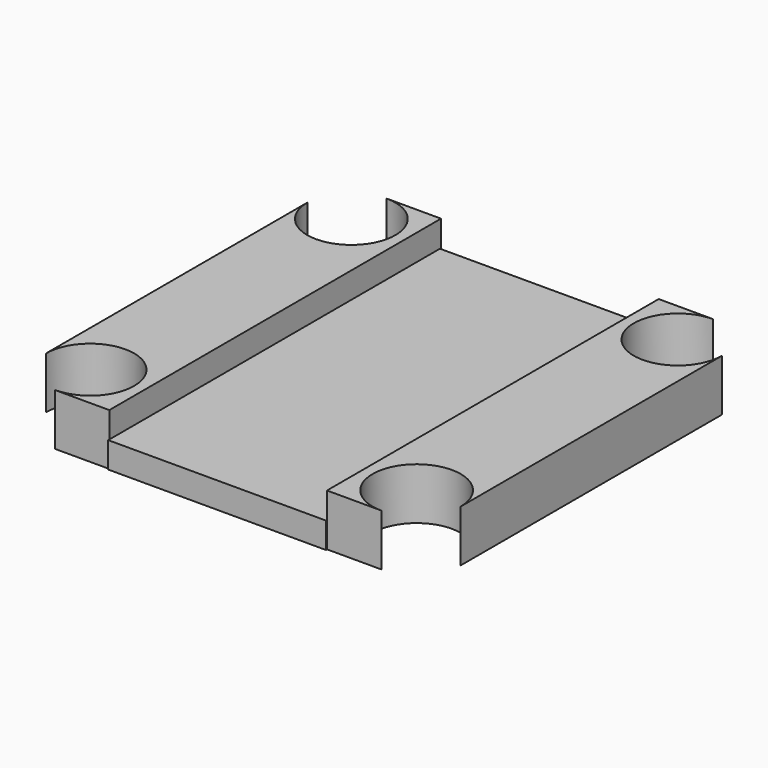
from build123d import *

# Parameters (mm, degrees)
F1_DEPTH = 5
F2_W     = 21
F2_H     = 40
F3_DEPTH = 2.5


with BuildPart() as f1:
    # F0 (on Top) → F1 (new body)
    with BuildSketch(Plane.XY):
        with BuildLine():
            Line((-22.509952, -19.204164), (-22.509952, 20.795836))
            Line((-22.509952, 20.795836), (-27.759952, 20.795836))
            ThreePointArc((-27.759952, 20.795836), (-24.754748, 19.55104), (-23.509952, 16.545836))
            ThreePointArc((-23.509952, 16.545836), (-27.759952, 12.295836), (-32.009952, 16.545836))
            Line((-32.009952, 16.545836), (-32.009952, -14.954164))
            ThreePointArc((-32.009952, -14.954164), (-27.759952, -10.704164), (-23.509952, -14.954164))
            ThreePointArc((-23.509952, -14.954164), (-24.754748, -17.959368), (-27.759952, -19.204164))
            Line((-27.759952, -19.204164), (-22.509952, -19.204164))
        make_face()
        with BuildLine():
            Line((3.740048, 20.795836), (-1.509952, 20.795836))
            Line((-1.509952, 20.795836), (-1.509952, -19.204164))
            Line((-1.509952, -19.204164), (3.740048, -19.204164))
            ThreePointArc((3.740048, -19.204164), (0.734844, -11.94896), (7.990048, -14.954164))
            Line((7.990048, -14.954164), (7.990048, 16.545836))
            ThreePointArc((7.990048, 16.545836), (0.734844, 13.540632), (3.740048, 20.795836))
        make_face()
    extrude(amount=F1_DEPTH)


with BuildPart() as f3:
    # F2 (on Top) → F3 (new body)
    with BuildSketch(Plane.XY):
        with Locations((-12.009952, 0.666172)):
            Rectangle(F2_W, F2_H)
    extrude(amount=F3_DEPTH)


solid = Compound([f1.part, f3.part])
